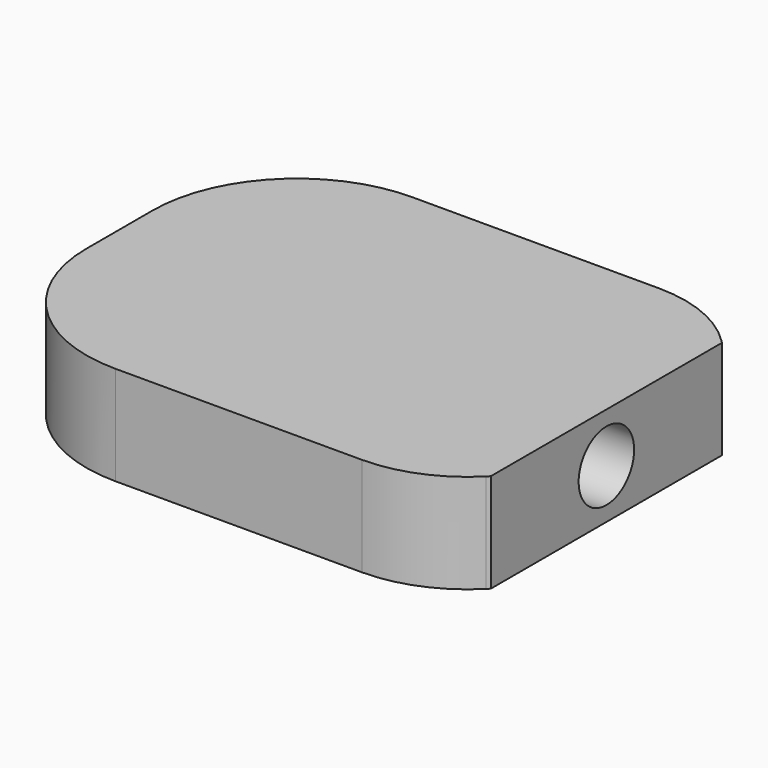
from build123d import *

# Parameters (mm, degrees)
PAD_DEPTH    = 6
SKETCH002_R  = 4.2
POCKET_DEPTH = 59.001
CHAMFER_SIZE = 5
FILLET_R     = 16


with BuildPart() as part:
    # Sketch → Pad (new body, symmetric)
    with BuildSketch(Plane.XY):
        with BuildLine():
            Line((20.75, -22.5), (20.75, 22.5))
            Line((20.75, 22.5), (-20.75, 22.5))
            ThreePointArc((-20.75, 22.5), (-33.124369, 17.374369), (-38.25, 5))
            Line((-38.25, 5), (-38.25, -5))
            ThreePointArc((-38.25, -5), (-33.124369, -17.374369), (-20.75, -22.5))
            Line((20.75, -22.5), (-20.75, -22.5))
        make_face()
    extrude(amount=PAD_DEPTH, both=True)

    # Sketch002 → Pocket (cut, through all)
    with BuildSketch(Plane.YZ.offset(20.75)):
        Circle(SKETCH002_R)
    extrude(amount=-POCKET_DEPTH, mode=Mode.SUBTRACT)

    # Chamfer
    chamfer_edges = [part.edges().sort_by_distance(p)[0] for p in [
        (20.75, 22.5, 0),
        (20.75, -22.5, 0),
    ]]
    chamfer(chamfer_edges, length=CHAMFER_SIZE)

    # Fillet
    fillet_edges = [part.edges().sort_by_distance(p)[0] for p in [
        (15.75, 22.5, 0),
        (15.75, -22.5, 0),
    ]]
    fillet(fillet_edges, radius=FILLET_R)


solid = part.part
